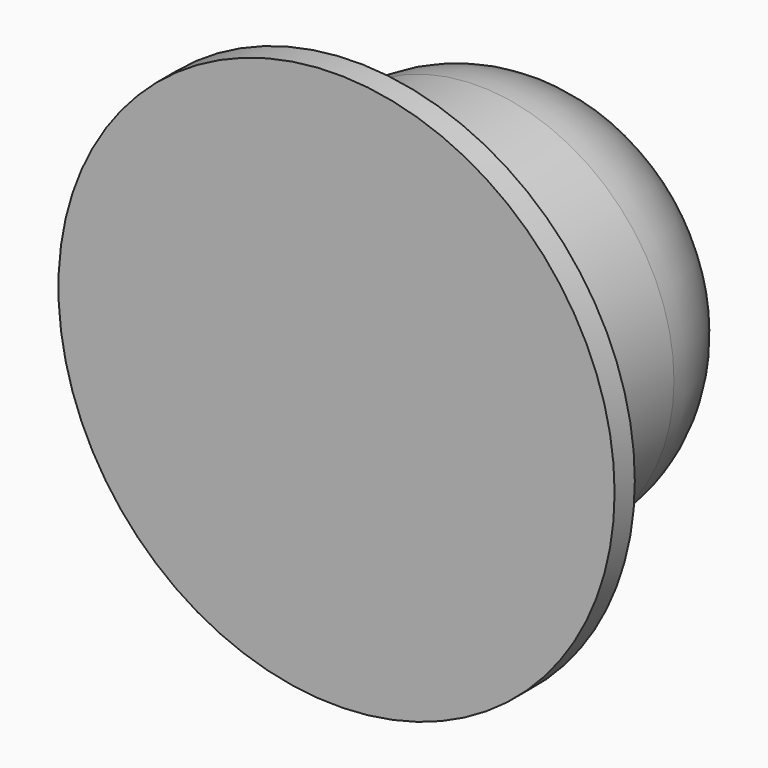
from build123d import *

# Parameters (mm, degrees)
F0_R     = 7.75
F1_DEPTH = 12
F0_R_2   = 11
F2_DEPTH = 1
F3_R     = 5


with BuildPart() as f1:
    # F0 (on Front) → F1 (new body)
    with BuildSketch(Plane.XZ):
        Circle(F0_R)
    extrude(amount=-F1_DEPTH)

    # F0 (on Front) → F2 (join)
    with BuildSketch(Plane.XZ):
        Circle(F0_R_2)
        Circle(F0_R, mode=Mode.SUBTRACT)
    extrude(amount=-F2_DEPTH)

    # F3
    f3_edges = [f1.edges().sort_by_distance(p)[0] for p in [
        (-7.75, 12, 0),
    ]]
    fillet(f3_edges, radius=F3_R)


solid = f1.part
